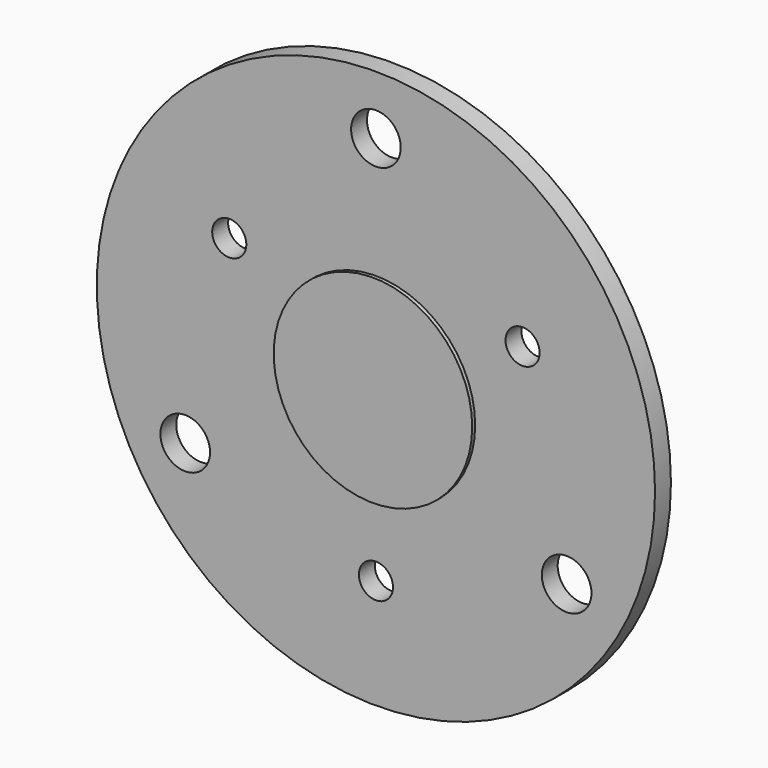
from build123d import *

# Parameters (mm, degrees)
F0_R     = 22.5
F1_DEPTH = 1.6
F2_R     = 8
F3_DEPTH = 0.3
F5_D     = 4
F7_D     = 2.75


with BuildPart() as f1:
    # F0 (on Front) → F1 (new body)
    with BuildSketch(Plane.XZ):
        Circle(F0_R)
    extrude(amount=F1_DEPTH)

    # F2 (on face) → F3 (join)
    with BuildSketch(Plane.XZ.offset(1.6)):
        Circle(F2_R)
    extrude(amount=F3_DEPTH)

    # F5 (through all)
    with Locations(Plane(origin=(0, 0, 0), x_dir=(-1, 0, 0), z_dir=(0, 1, 0))):
        with Locations((0, 17.75), (-15.371951, -8.875), (15.371951, -8.875)):
            Hole(F5_D / 2)

    # F7 (through all)
    with Locations(Plane(origin=(0, 0, 0), x_dir=(-1, 0, 0), z_dir=(0, 1, 0))):
        with Locations((11.821247, 6.825), (0, -13.65), (-11.821247, 6.825)):
            Hole(F7_D / 2)


solid = f1.part
